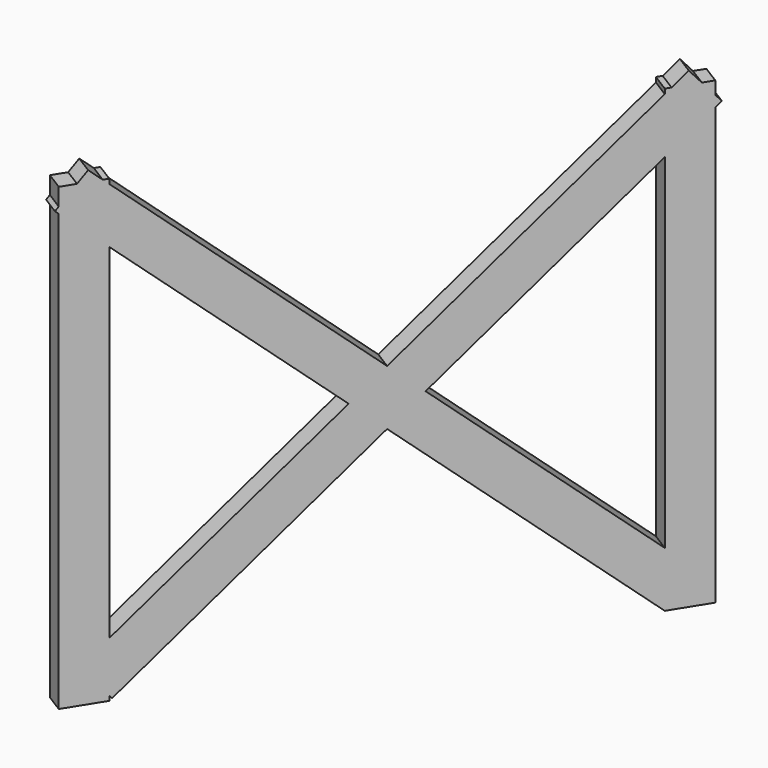
from build123d import *

# Parameters (mm, degrees)
BOX224_W                  = 0.5
BOX224_H                  = 1
BOX224_DEPTH              = 11
BOX225_W                  = 0.5
BOX225_H                  = 1
BOX225_DEPTH              = 16
BOX225_ROLL_ANGLE         = 49
BOX226_W                  = 0.5
BOX226_H                  = 1
BOX226_DEPTH              = 16
BOX226_ROLL_ANGLE         = -49
BOX223_W                  = 0.5
BOX223_H                  = 1
BOX223_DEPTH              = 11
FUSION018_PLACEMENT_ANGLE = -32


with BuildPart() as cubo224:
    # Box224 → Box224 (new body)
    with BuildSketch(Plane(origin=(0, 12, 0.5), x_dir=(1, 0, 0), z_dir=(0, 0, 1))):
        with Locations((0.25, 0.5)):
            Rectangle(BOX224_W, BOX224_H)
    extrude(amount=BOX224_DEPTH)


with BuildPart() as cubo225:
    # Box225 → Box225 (new body)
    with BuildSketch(Plane.XY):
        with Locations((0.25, 0.5)):
            Rectangle(BOX225_W, BOX225_H)
    extrude(amount=BOX225_DEPTH)


with BuildPart() as cubo225_1:
    # Box225 roll: moved
    add(cubo225.part.rotate(Axis((0, 0, 0), (1, 0, 0)), BOX225_ROLL_ANGLE))


with BuildPart() as cubo225_2:
    # Box225 placement: moved
    add(cubo225_1.part.moved(Location((0, 12, 0.5))))


with BuildPart() as cubo226:
    # Box226 → Box226 (new body)
    with BuildSketch(Plane.XY):
        with Locations((0.25, 0.5)):
            Rectangle(BOX226_W, BOX226_H)
    extrude(amount=BOX226_DEPTH)


with BuildPart() as cubo226_1:
    # Box226 roll: moved
    add(cubo226.part.rotate(Axis((0, 0, 0), (1, 0, 0)), BOX226_ROLL_ANGLE))


with BuildPart() as cubo226_2:
    # Box226 placement: moved
    add(cubo226_1.part.moved(Location((0, 0.4, 1.3))))


with BuildPart() as fusion018:
    # Box223 → Box223 (new body)
    with BuildSketch(Plane.XY.offset(0.5)):
        with Locations((0.25, 0.5)):
            Rectangle(BOX223_W, BOX223_H)
    extrude(amount=BOX223_DEPTH)

    # Fusion018: union Cubo224, Cubo225, Cubo226
    add(cubo224.part)
    add(cubo225_2.part)
    add(cubo226_2.part)


with BuildPart() as fusion018_1:
    # Fusion018 placement: moved
    add(fusion018.part.moved(Location((-205, 113.4, 0))).rotate(Axis((-205, 113.4, 0), (0, 0, 1)), FUSION018_PLACEMENT_ANGLE))


solid = fusion018_1.part
